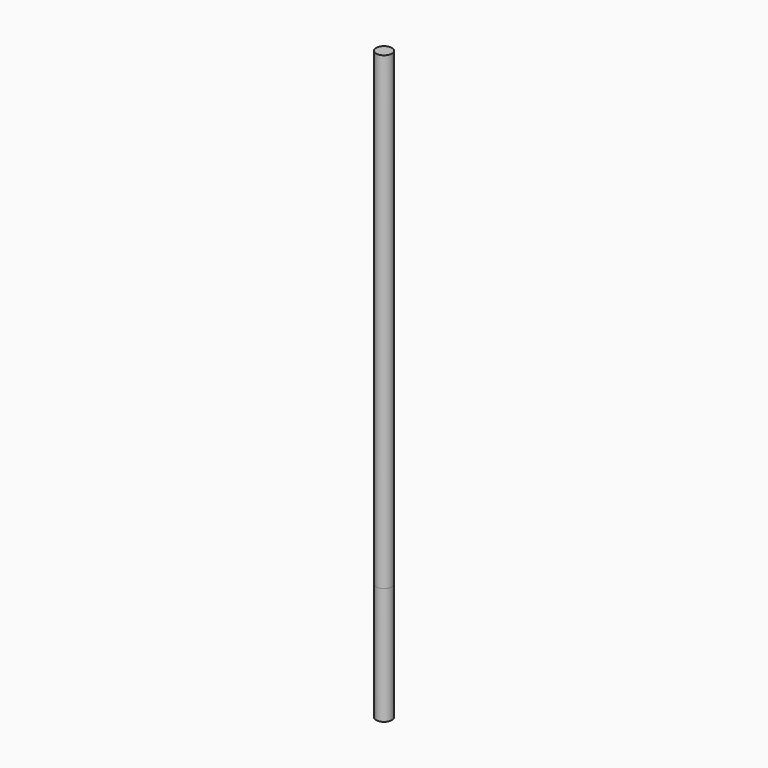
from build123d import *

# Parameters (mm, degrees)
F0_R     = 2
F1_DEPTH = 150
F2_DEPTH = 30


with BuildPart() as f1:
    # F0 (on Top) → F1 (new body)
    with BuildSketch(Plane.XY):
        Circle(F0_R)
    extrude(amount=F1_DEPTH)


with BuildPart() as f2:
    # F0 (on Top) → F2 (new body)
    with BuildSketch(Plane.XY):
        Circle(F0_R)
    extrude(amount=F2_DEPTH)


solid = Compound([f1.part, f2.part])
